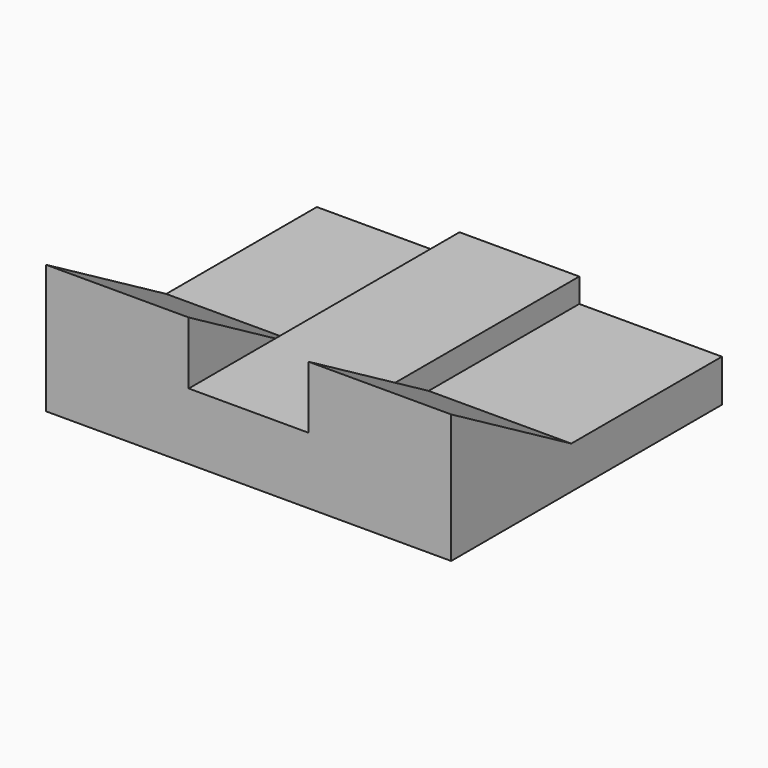
from build123d import *

# Parameters (mm, degrees)
F0_W     = 106.6328883171
F0_H     = 89.0891589573
F1_DEPTH = 11.1428909004
F3_DEPTH = 37.5499762595
F6_DEPTH = 6.3658682629


with BuildPart() as f1:
    # F0 (on Top) → F1 (new body)
    with BuildSketch(Plane.XY):
        Rectangle(F0_W, F0_H)
    extrude(amount=F1_DEPTH)

    # F2 (on face) → F3 (join)
    with BuildSketch(Plane(origin=(-53.3164441586, 0, 0), x_dir=(0, -1, 0), z_dir=(-1, 0, 0))):
        Polygon((5.0119608641, 11.1428909004), (44.5445794787, 11.1428909004), (44.5445794787, 33.9670588993), align=None)
    extrude(amount=-F3_DEPTH)

    # F4: F1 across plane


with BuildPart() as f1_1:
    add(f1.part)
    add(f1.part.mirror(Plane.YZ))

    # F5 (on face) → F6 (join)
    with BuildSketch(Plane.XY.offset(11.1428909004)):
        Polygon((-15.7664678991, -5.0119608641), (-15.7664678991, -44.5445794787), (15.7664678991, -44.5445794787), (15.7664678991, -5.0119608641), (15.7664678991, 44.5445794787), (-15.7664678991, 44.5445794787), align=None)
    extrude(amount=F6_DEPTH)


solid = f1_1.part
